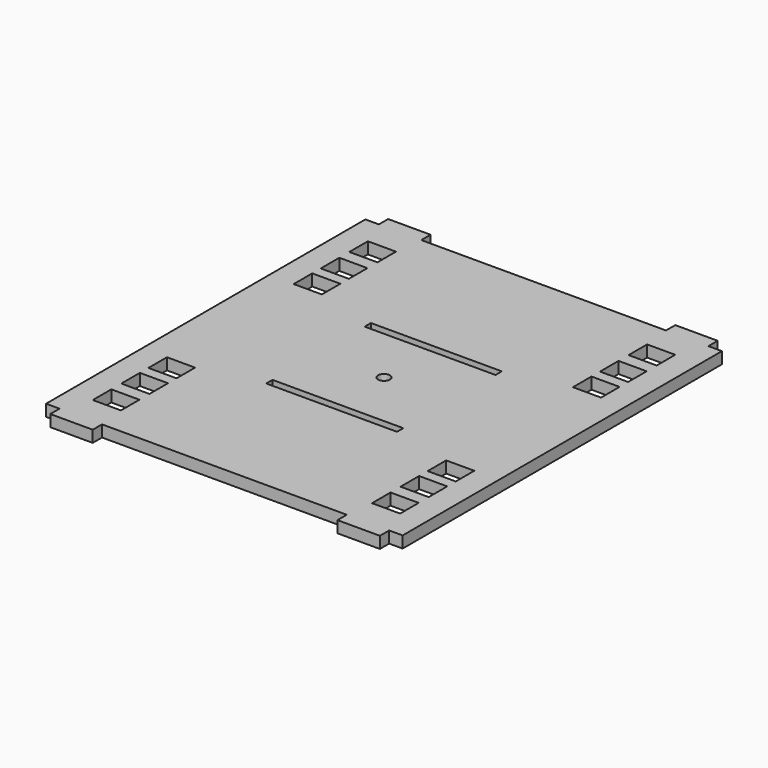
from build123d import *

# Parameters (mm, degrees)
F0_W     = 12.115448
F0_H     = 9.97743
F0_W_2   = 56.370701
F0_H_2   = 3.390066
F0_R     = 2.542431
F0_W_3   = 18.290117
F0_H_3   = 5
F1_DEPTH = 5


with BuildPart() as f1:
    # F0 (on Top) → F1 (new body)
    with BuildSketch(Plane.XY):
        Polygon((-115.620404, 83.065476), (-121.425346, 83.065476), (-121.425346, -88.866214), (-115.620404, -88.866214), (-97.330287, -88.866214), (8.093566, -88.866214), (26.383683, -88.866214), (32.188624, -88.866214), (32.188624, 83.065476), (26.383683, 83.065476), (8.093566, 83.065476), (-91.525346, 83.065476), (-97.330287, 83.065476), align=None)
        with Locations((-104.766935, -71.978614)):
            Rectangle(F0_W, F0_H, mode=Mode.SUBTRACT)
        with Locations((-104.766935, -56.598406)):
            Rectangle(F0_W, F0_H, mode=Mode.SUBTRACT)
        with Locations((-104.766935, -42.02375)):
            Rectangle(F0_W, F0_H, mode=Mode.SUBTRACT)
        with Locations((15.530214, -71.978614)):
            Rectangle(F0_W, F0_H, mode=Mode.SUBTRACT)
        with Locations((15.530214, -56.598406)):
            Rectangle(F0_W, F0_H, mode=Mode.SUBTRACT)
        with Locations((-44.61836, -29.415544)):
            Rectangle(F0_W_2, F0_H_2, mode=Mode.SUBTRACT)
        with Locations((15.530214, -42.02375)):
            Rectangle(F0_W, F0_H, mode=Mode.SUBTRACT)
        with Locations((-104.766935, 36.223011)):
            Rectangle(F0_W, F0_H, mode=Mode.SUBTRACT)
        with Locations((-104.766935, 50.797667)):
            Rectangle(F0_W, F0_H, mode=Mode.SUBTRACT)
        with Locations((-104.766935, 66.177875)):
            Rectangle(F0_W, F0_H, mode=Mode.SUBTRACT)
        with Locations((-44.618361, -2.900369)):
            Circle(F0_R, mode=Mode.SUBTRACT)
        with Locations((-44.61836, 23.614805)):
            Rectangle(F0_W_2, F0_H_2, mode=Mode.SUBTRACT)
        with Locations((15.530214, 36.223011)):
            Rectangle(F0_W, F0_H, mode=Mode.SUBTRACT)
        with Locations((15.530214, 50.797667)):
            Rectangle(F0_W, F0_H, mode=Mode.SUBTRACT)
        with Locations((15.530214, 66.177875)):
            Rectangle(F0_W, F0_H, mode=Mode.SUBTRACT)
        with Locations((-106.475346, 85.565476)):
            Rectangle(F0_W_3, F0_H_3)
        with Locations((-106.475346, -91.366214)):
            Rectangle(F0_W_3, F0_H_3)
        with Locations((17.238625, -91.366214)):
            Rectangle(F0_W_3, F0_H_3)
        with Locations((17.238625, 85.565476)):
            Rectangle(F0_W_3, F0_H_3)
    extrude(amount=F1_DEPTH)


solid = f1.part
